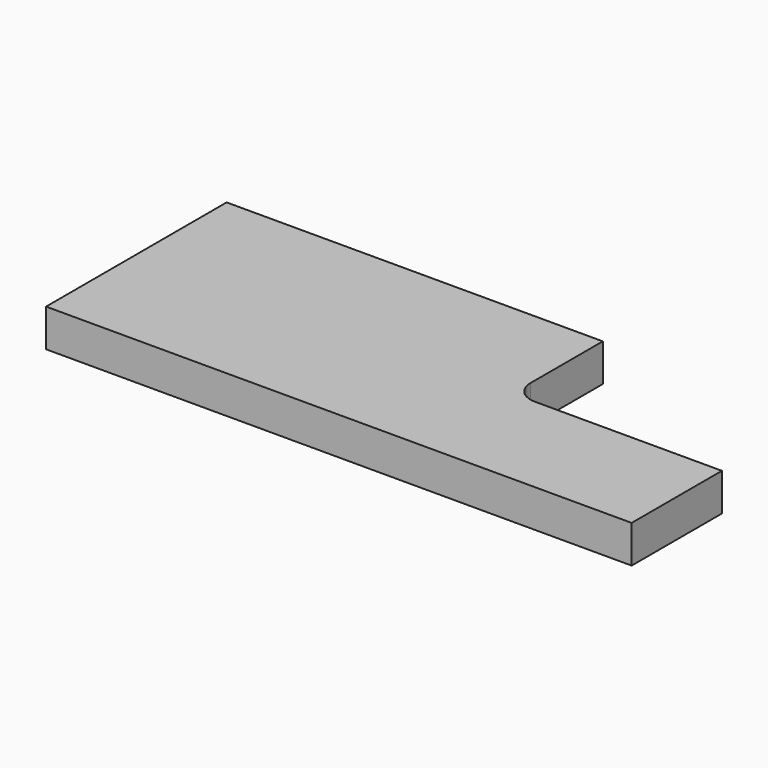
from build123d import *

# Parameters (mm, degrees)
F1_DEPTH = 5


with BuildPart() as f1:
    # F0 (on Top) → F1 (new body)
    with BuildSketch(Plane.XY):
        with BuildLine():
            Line((-25, 15), (-25, -15))
            Line((-25, -15), (25, -15))
            Line((25, -15), (52.836794, -15))
            Line((52.836794, -15), (52.836794, 0))
            Line((52.836794, 0), (28, 0))
            ThreePointArc((28, 0), (25.87868, 0.87868), (25, 3))
            Line((25, 3), (25, 15))
            Line((25, 15), (-25, 15))
        make_face()
    extrude(amount=F1_DEPTH)


solid = f1.part
